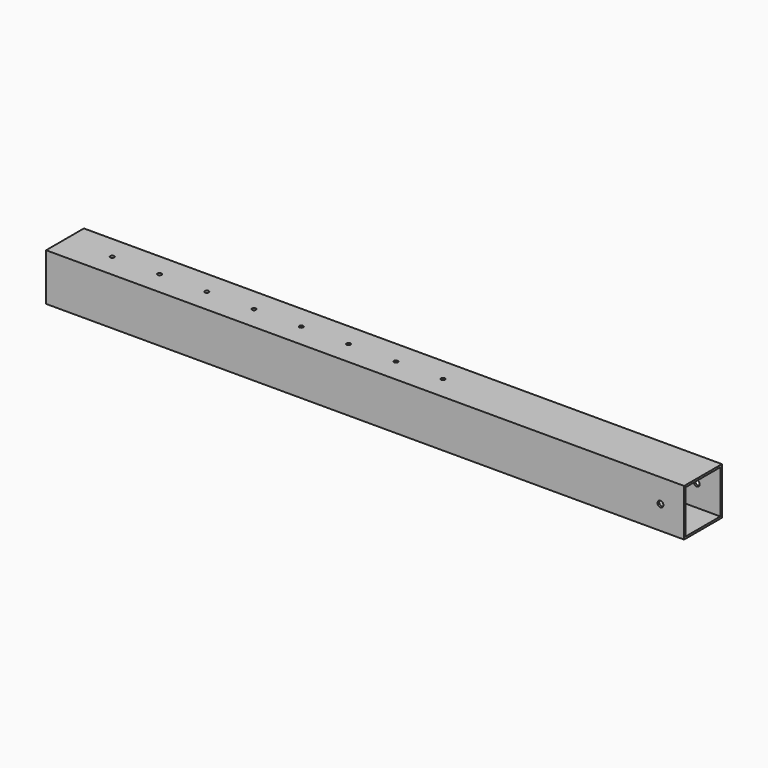
from build123d import *

# Parameters (mm, degrees)
F0_W     = 152.4
F0_H     = 152.4
F0_W_2   = 139.7
F0_H_2   = 139.7
F1_DEPTH = 2057.4
F3_D     = 12.7
F5_D     = 19.05


with BuildPart() as f1:
    # F0 (on Right) → F1 (new body)
    with BuildSketch(Plane.YZ):
        Rectangle(F0_W, F0_H)
        Rectangle(F0_W_2, F0_H_2, mode=Mode.SUBTRACT)
    extrude(amount=F1_DEPTH)

    # F3 (through all)
    with Locations(Plane.XY.offset(76.2)):
        with Locations((152.4, 0), (304.8, 0), (457.2, 0), (609.6, 0), (762, 0), (914.4, 0), (1066.8, 0), (1219.2, 0)):
            Hole(F3_D / 2)

    # F5 (through all)
    with Locations(Plane(origin=(0, 76.2, 0), x_dir=(-1, 0, 0), z_dir=(0, 1, 0))):
        with Locations((-1981.2, 0)):
            Hole(F5_D / 2)


solid = f1.part
